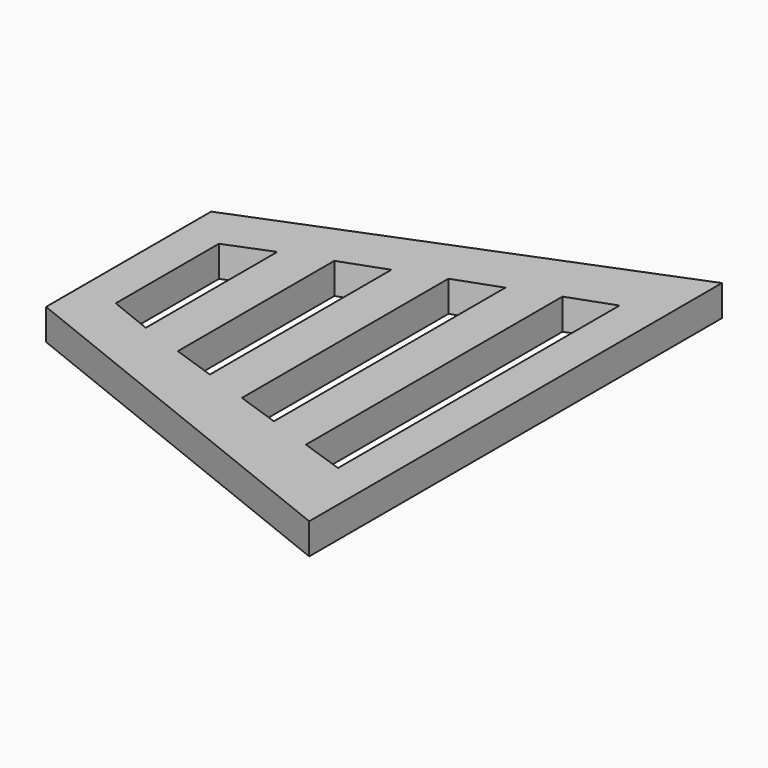
from build123d import *

# Parameters (mm, degrees)
F1_DEPTH = 120
F3_DEPTH = 120


with BuildPart() as f1:
    # F0 (on Top) → F1 (new body)
    with BuildSketch(Plane.XY):
        Polygon((0, -1000), (0, 1000), (-1500, 400), (-1500, -400), align=None)
        Polygon((-1350, -250), (-1350, 250), (-1178.571429, 318.571429), (-1178.571429, -318.571429), align=None, mode=Mode.SUBTRACT)
        Polygon((-835.714286, -436.652063), (-1007.142857, -377.611746), (-1007.142857, 380.680479), (-835.714286, 442.789529), align=None, mode=Mode.SUBTRACT)
        Polygon((-664.285714, -495.692381), (-664.285714, 504.89858), (-492.857143, 567.00763), (-492.857143, -554.732698), align=None, mode=Mode.SUBTRACT)
        Polygon((-321.428571, 629.116681), (-150, 691.225731), (-150, -672.813333), (-321.428571, -613.773016), align=None, mode=Mode.SUBTRACT)
    extrude(amount=-F1_DEPTH)

    # F0 (on Top) → F3 (join)
    with BuildSketch(Plane.XY):
        Polygon((0, -1000), (0, 1000), (-1500, 400), (-1500, -400), align=None)
        Polygon((-1350, -250), (-1350, 250), (-1178.571429, 318.571429), (-1178.571429, -318.571429), align=None, mode=Mode.SUBTRACT)
        Polygon((-835.714286, -436.652063), (-1007.142857, -377.611746), (-1007.142857, 380.680479), (-835.714286, 442.789529), align=None, mode=Mode.SUBTRACT)
        Polygon((-664.285714, -495.692381), (-664.285714, 504.89858), (-492.857143, 567.00763), (-492.857143, -554.732698), align=None, mode=Mode.SUBTRACT)
        Polygon((-321.428571, 629.116681), (-150, 691.225731), (-150, -672.813333), (-321.428571, -613.773016), align=None, mode=Mode.SUBTRACT)
    extrude(amount=-F3_DEPTH)


solid = f1.part
